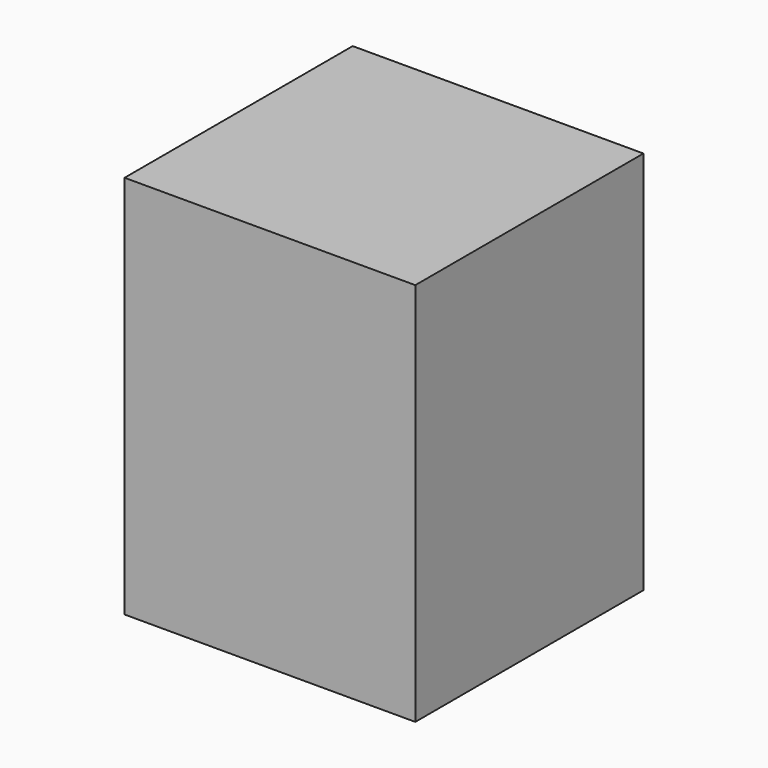
from build123d import *

# Parameters (mm, degrees)
F0_W     = 76.822445
F0_H     = 75.345844
F4_DEPTH = 101.6
F5_DEPTH = 101.6
F3_W     = 32.870349
F3_H     = 30.499473
F6_DEPTH = 101.6
F1_W     = 36.437675
F1_H     = 35.673249
F7_DEPTH = 101.6


with BuildPart() as f4:
    # F0 (on Top) → F4 (new body)
    with BuildSketch(Plane.XY):
        with Locations((38.411223, 37.672922)):
            Rectangle(F0_W, F0_H)
    extrude(amount=F4_DEPTH)

    # F2 (on face) → F5 (cut)
    with BuildSketch(Plane.XY):
        Polygon((76.822445, 75.345844), (43.373927, 75.345844), (43.373927, 44.336755), (76.753892, 44.336755), (76.753892, 0), (76.822445, 0), align=None)
    extrude(amount=-F5_DEPTH, mode=Mode.SUBTRACT)

    # F3 (on face) → F6 (join)
    with BuildSketch(Plane.XY):
        with Locations((59.554295, 60.096108)):
            Rectangle(F3_W, F3_H)
    extrude(amount=F6_DEPTH)

    # F1 (on face) → F7 (join)
    with BuildSketch(Plane.XY):
        with Locations((57.770632, 57.077197)):
            Rectangle(F1_W, F1_H)
    extrude(amount=F7_DEPTH)


solid = f4.part
